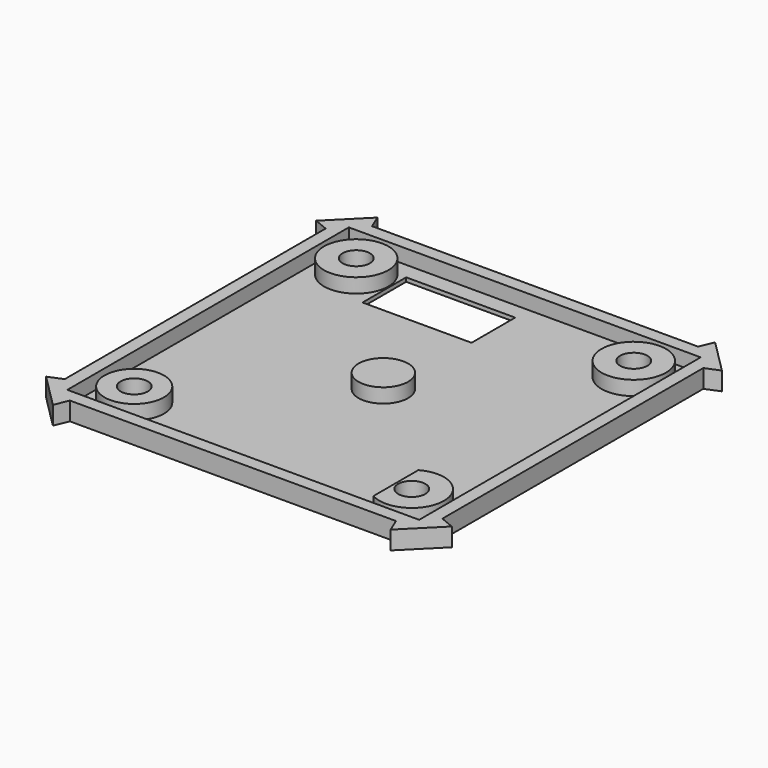
from build123d import *

# Parameters (mm, degrees)
SKETCH_R      = 1.375
SKETCH_W      = 11
SKETCH_H      = 5.5
PAD_DEPTH     = 0.4
SKETCH001_W   = 35.5
SKETCH001_H   = 35.5
PAD001_DEPTH  = 1.45
SKETCH002_R   = 3.25
SKETCH002_R_2 = 1.375
SKETCH002_R_3 = 3
SKETCH002_R_4 = 2.5
PAD002_DEPTH  = 1.45


with BuildPart() as part:
    # Sketch (on DatumPlane) → Pad (new body)
    with BuildSketch(Plane(origin=(300.2309, 104.1, -11.25), x_dir=(-1, 0, 0), z_dir=(0, 0, -1))):
        Polygon((20.325114, -17.125786), (16.896686, -20.554214), (16.3109, -19.14), (-16.5891, -19.14), (-17.174886, -20.554214), (-20.603314, -17.125786), (-19.1891, -16.54), (-19.1891, 16.36), (-20.603314, 16.945786), (-17.174886, 20.374214), (-16.5891, 18.96), (16.3109, 18.96), (16.896686, 20.374214), (20.325114, 16.945786), (18.9109, 16.36), (18.9109, -16.54), align=None)
        with Locations((-14.1391, 13.91)):
            Circle(SKETCH_R, mode=Mode.SUBTRACT)
        with Locations((13.8609, 13.91)):
            Circle(SKETCH_R, mode=Mode.SUBTRACT)
        with Locations((13.8609, -14.09)):
            Circle(SKETCH_R, mode=Mode.SUBTRACT)
        with Locations((-14.1391, -14.09)):
            Circle(SKETCH_R, mode=Mode.SUBTRACT)
        with Locations((5, 13.25)):
            Rectangle(SKETCH_W, SKETCH_H, mode=Mode.SUBTRACT)
    extrude(amount=-PAD_DEPTH)

    # Sketch001 (on DatumPlane) → Pad001 (join)
    with BuildSketch(Plane(origin=(300.2309, 104.1, -10.85), x_dir=(-1, 0, 0), z_dir=(0, 0, 1))):
        Polygon((16.3109, -18.96), (16.896686, -20.374214), (20.325114, -16.945786), (18.9109, -16.36), (18.9109, 16.54), (20.325114, 17.125786), (16.896686, 20.554214), (16.3109, 19.14), (-16.5891, 19.14), (-17.174886, 20.554214), (-20.603314, 17.125786), (-19.1891, 16.54), (-19.1891, -16.36), (-20.603314, -16.945786), (-17.174886, -20.374214), (-16.5891, -18.96), align=None)
        with Locations((-0.1391, 0.09)):
            Rectangle(SKETCH001_W, SKETCH001_H, mode=Mode.SUBTRACT)
    extrude(amount=PAD001_DEPTH)

    # Sketch002 (on DatumPlane) → Pad002 (join)
    with BuildSketch(Plane(origin=(300.2309, 104.1, -10.85), x_dir=(-1, 0, 0), z_dir=(0, 0, 1))):
        with Locations((-14.1391, -13.91)):
            Circle(SKETCH002_R)
        with Locations((-14.1391, -13.91)):
            Circle(SKETCH002_R_2, mode=Mode.SUBTRACT)
        with Locations((13.8609, 14.09)):
            Circle(SKETCH002_R_3)
        with Locations((13.8609, 14.09)):
            Circle(SKETCH002_R_2, mode=Mode.SUBTRACT)
        with Locations((13.8609, -13.91)):
            Circle(SKETCH002_R)
        with Locations((13.8609, -13.91)):
            Circle(SKETCH002_R_2, mode=Mode.SUBTRACT)
        Circle(SKETCH002_R_4)
        with BuildLine():
            ThreePointArc((-12.5391, 16.918869), (-17.3891, 14.09), (-12.5391, 11.261131))
            Line((-12.5391, 11.261131), (-12.5391, 16.918869))
        make_face()
        with Locations((-14.1391, 14.09)):
            Circle(SKETCH002_R_2, mode=Mode.SUBTRACT)
    extrude(amount=PAD002_DEPTH)


solid = part.part
